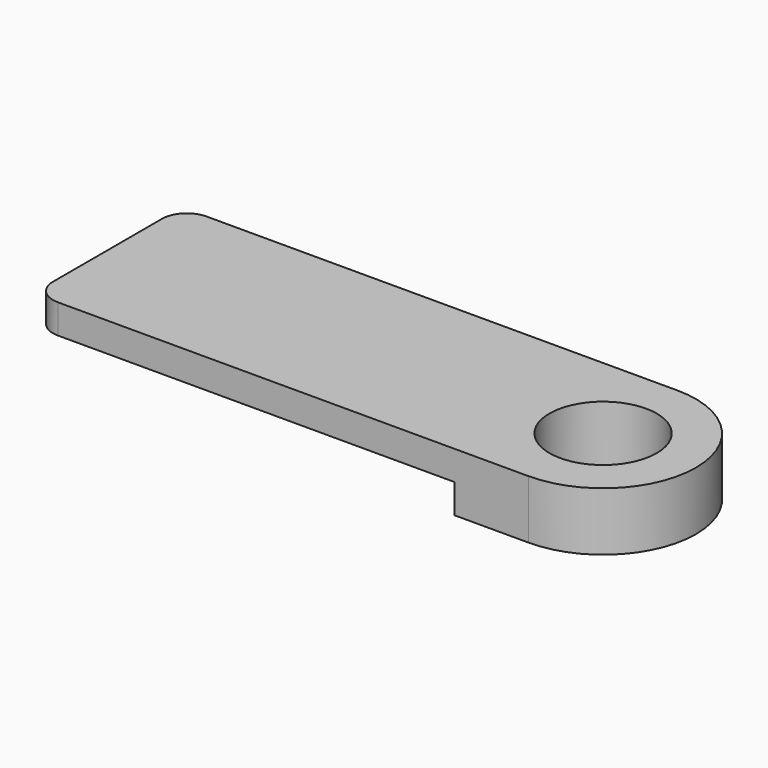
from build123d import *

# Parameters (mm, degrees)
F0_R     = 5.5
F1_DEPTH = 6
F2_W     = 12.7
F2_H     = 3
F3_DEPTH = 43.18


with BuildPart() as f1:
    # F0 (on Top) → F1 (new body)
    with BuildSketch(Plane.XY):
        with BuildLine():
            Line((-48.26, -9.525), (0, -9.525))
            ThreePointArc((0, -9.525), (9.525, 0), (0, 9.525))
            Line((0, 9.525), (-48.26, 9.525))
            ThreePointArc((-48.26, 9.525), (-50.056051, 8.781051), (-50.8, 6.985))
            Line((-50.8, 6.985), (-50.8, -6.985))
            ThreePointArc((-50.8, -6.985), (-50.056051, -8.781051), (-48.26, -9.525))
        make_face()
        Circle(F0_R, mode=Mode.SUBTRACT)
    extrude(amount=F1_DEPTH)

    # F2 (on face) → F3 (cut)
    with BuildSketch(Plane(origin=(-50.8, 0, 0), x_dir=(0, -1, 0), z_dir=(-1, 0, 0))):
        with Locations((3.175, 1.5)):
            Rectangle(F2_W, F2_H)
    extrude(amount=-F3_DEPTH, mode=Mode.SUBTRACT)


solid = f1.part
